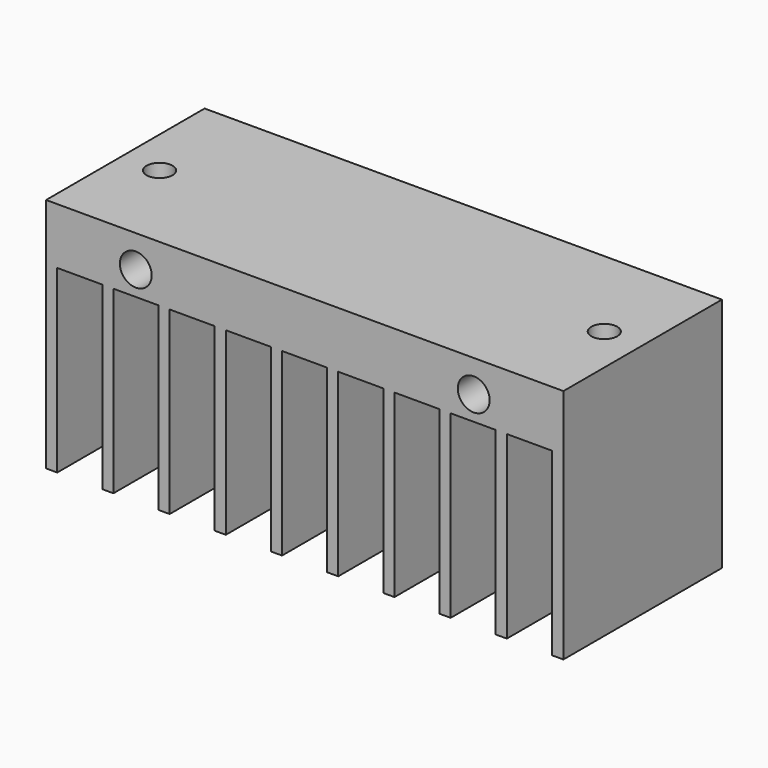
from build123d import *

# Parameters (mm, degrees)
F0_R     = 2.2479
F1_DEPTH = 27.94
F2_R     = 1.8288
F3_DEPTH = 33.3258
F4_DEPTH = 33.3258


with BuildPart() as f1:
    # F0 (on Front) → F1 (new body)
    with BuildSketch(Plane.XZ):
        Polygon((-36.4744, 18.648794), (-36.4744, -14.676006), (-34.8996, -14.676006), (-34.8996, 10.723994), (-28.5496, 10.723994), (-28.5496, -14.676006), (-26.9748, -14.676006), (-26.9748, 10.723994), (-20.6248, 10.723994), (-20.6248, -14.676006), (-19.05, -14.676006), (-19.05, 10.723994), (-12.7, 10.723994), (-12.7, -14.676006), (-11.1252, -14.676006), (-11.1252, 10.723994), (-4.7752, 10.723994), (-4.7752, -14.676006), (-3.2004, -14.676006), (-3.2004, 10.723994), (3.1496, 10.723994), (3.1496, -14.676006), (4.7244, -14.676006), (4.7244, 10.723994), (11.0744, 10.723994), (11.0744, -14.676006), (12.6492, -14.676006), (12.6492, 10.723994), (18.9992, 10.723994), (18.9992, -14.676006), (20.574, -14.676006), (20.574, 10.723994), (26.924, 10.723994), (26.924, -14.676006), (28.4988, -14.676006), (28.4988, 10.723994), (34.8488, 10.723994), (34.8488, -14.676006), (36.4744, -14.676006), (36.4744, 18.648794), align=None)
        with Locations((-23.8252, 14.127594)):
            Circle(F0_R, mode=Mode.SUBTRACT)
        with Locations((23.8252, 14.127594)):
            Circle(F0_R, mode=Mode.SUBTRACT)
    extrude(amount=F1_DEPTH)

    # F2 (on face) → F3 (cut, through all)
    with BuildSketch(Plane.XY.offset(18.648794)):
        with Locations((-31.115, -14.63412)):
            Circle(F2_R)
    extrude(amount=-F3_DEPTH, mode=Mode.SUBTRACT)

    # F2 (on face) → F4 (cut, through all)
    with BuildSketch(Plane.XY.offset(18.648794)):
        with Locations((31.115, -14.036736)):
            Circle(F2_R)
        with Locations((-31.115, -14.63412)):
            Circle(F2_R)
    extrude(amount=-F4_DEPTH, mode=Mode.SUBTRACT)


solid = f1.part
